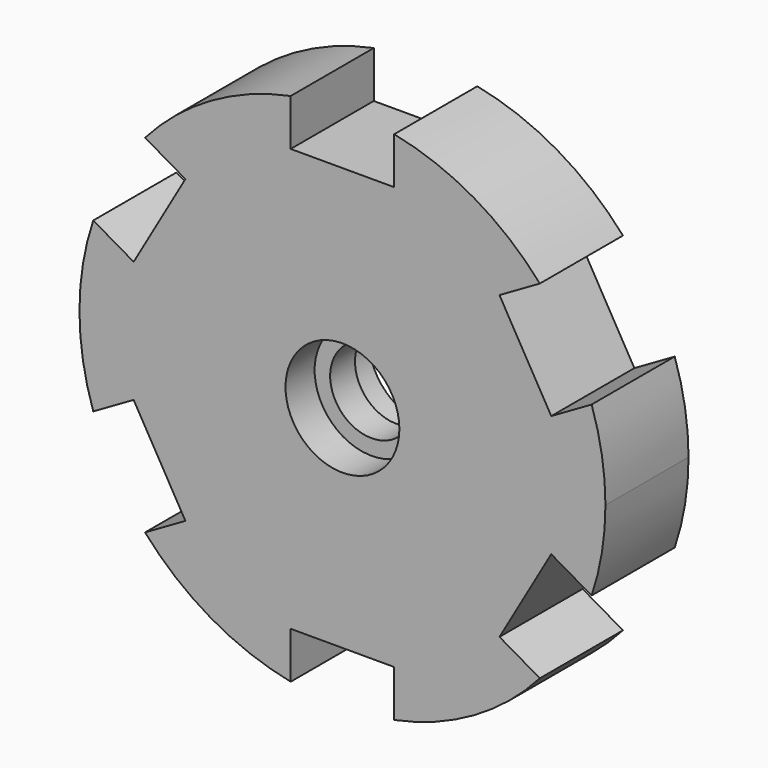
from build123d import *

# Parameters (mm, degrees)
F0_R     = 11
F2_DEPTH = 10.033
F1_R     = 11
F1_R_2   = 8
F3_DEPTH = 3


with BuildPart() as f2:
    # F0 (on Front) → F2 (new body, symmetric)
    with BuildSketch(Plane.XZ):
        with BuildLine():
            ThreePointArc((48.133282, -16.242758), (50.128887, -8.230106), (50.8, 0))
            ThreePointArc((50.8, 0), (50.128887, 8.230106), (48.133282, 16.242758))
            Line((48.133282, 16.242758), (40.333836, 11.739746))
            Line((40.333836, 11.739746), (30.333836, 29.060254))
            Line((30.333836, 29.060254), (38.133282, 33.563266))
            ThreePointArc((38.133282, 33.563266), (25.4, 43.994091), (10, 49.806024))
            Line((10, 49.806024), (10, 40.8))
            Line((10, 40.8), (-10, 40.8))
            Line((-10, 40.8), (-10, 49.806024))
            ThreePointArc((-10, 49.806024), (-25.4, 43.994091), (-38.133282, 33.563266))
            Line((-38.133282, 33.563266), (-30.333836, 29.060254))
            Line((-30.333836, 29.060254), (-40.333836, 11.739746))
            Line((-40.333836, 11.739746), (-48.133282, 16.242758))
            ThreePointArc((-48.133282, 16.242758), (-50.8, 0), (-48.133282, -16.242758))
            Line((-48.133282, -16.242758), (-40.333836, -11.739746))
            Line((-40.333836, -11.739746), (-30.333836, -29.060254))
            Line((-30.333836, -29.060254), (-38.133282, -33.563266))
            ThreePointArc((-38.133282, -33.563266), (-25.4, -43.994091), (-10, -49.806024))
            Line((-10, -49.806024), (-10, -40.8))
            Line((-10, -40.8), (10, -40.8))
            Line((10, -40.8), (10, -49.806024))
            ThreePointArc((10, -49.806024), (25.4, -43.994091), (38.133282, -33.563266))
            Line((38.133282, -33.563266), (30.333836, -29.060254))
            Line((30.333836, -29.060254), (40.333836, -11.739746))
            Line((40.333836, -11.739746), (48.133282, -16.242758))
        make_face()
        Circle(F0_R, mode=Mode.SUBTRACT)
    extrude(amount=F2_DEPTH, both=True)

    # F1 (on Front) → F3 (join, symmetric)
    with BuildSketch(Plane.XZ):
        Circle(F1_R)
        Circle(F1_R_2, mode=Mode.SUBTRACT)
    extrude(amount=F3_DEPTH, both=True)


solid = f2.part
